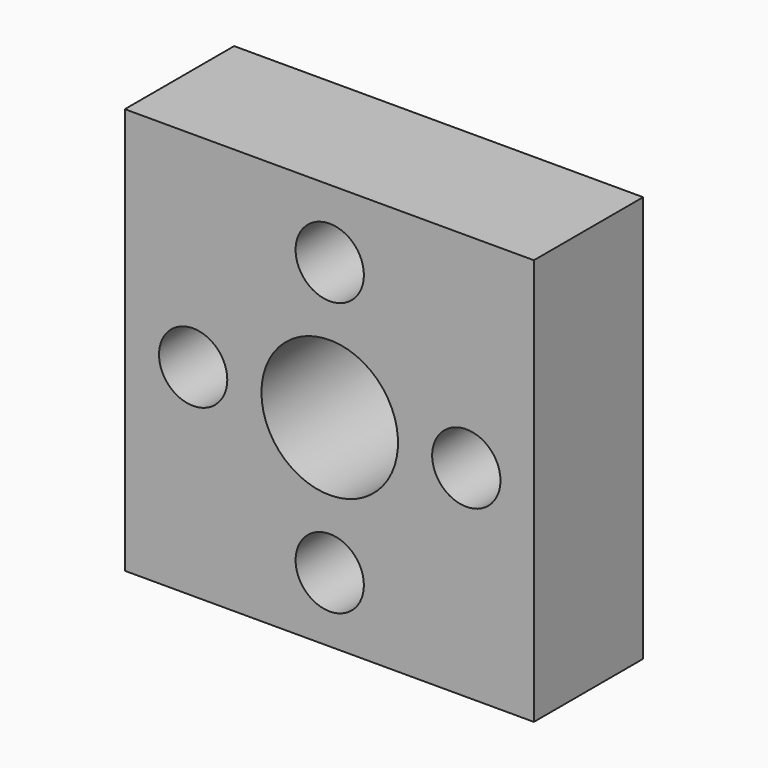
from build123d import *

# Parameters (mm, degrees)
F0_W     = 76.064058
F0_H     = 75.58123
F1_DEPTH = 25.4
F2_R     = 12.7
F3_DEPTH = 25.401
F4_R     = 6.35
F5_DEPTH = 25.401


with BuildPart() as f1:
    # F0 (on Front) → F1 (new body)
    with BuildSketch(Plane.XZ):
        with Locations((-38.032029, 37.790615)):
            Rectangle(F0_W, F0_H)
    extrude(amount=F1_DEPTH)

    # F2 (on face) → F3 (cut, through all)
    with BuildSketch(Plane(origin=(0, 0, 0), x_dir=(-1, 0, 0), z_dir=(0, 1, 0))):
        with Locations((37.964058, 37.48123)):
            Circle(F2_R)
    extrude(amount=-F3_DEPTH, mode=Mode.SUBTRACT)

    # F4 (on face) → F5 (cut, through all)
    with BuildSketch(Plane.XZ.offset(25.4)):
        with Locations((-37.964058, 62.88123)):
            Circle(F4_R)
        with Locations((-63.364058, 37.48123)):
            Circle(F4_R)
        with Locations((-37.964058, 12.08123)):
            Circle(F4_R)
        with Locations((-12.564058, 37.48123)):
            Circle(F4_R)
    extrude(amount=-F5_DEPTH, mode=Mode.SUBTRACT)


solid = f1.part
